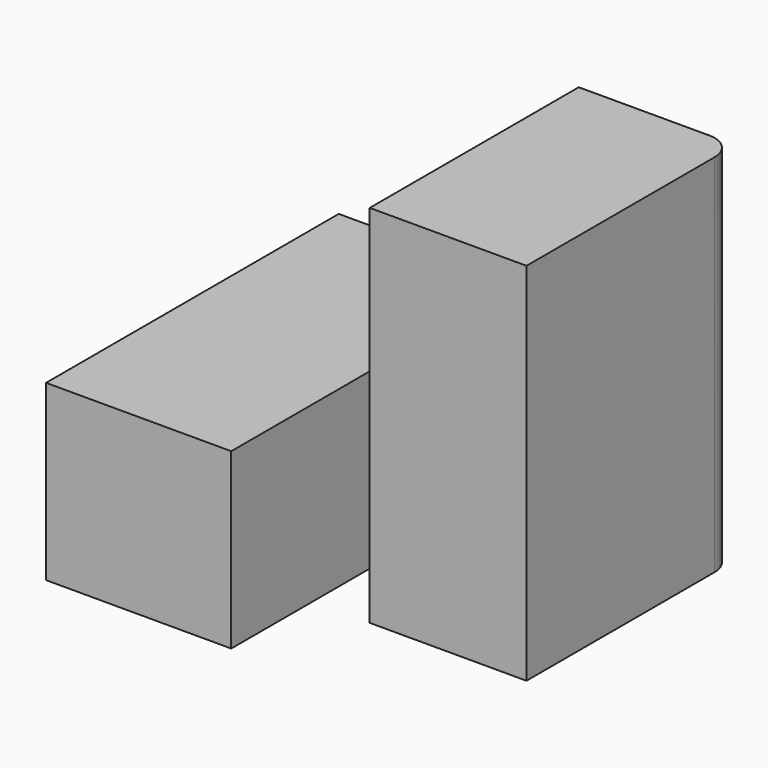
from build123d import *

# Parameters (mm, degrees)
F2_DEPTH = 88.784553
F0_W     = 45
F0_H     = 88.9
F3_DEPTH = 42.222336


with BuildPart() as f2:
    # F1 (on face) → F2 (new body)
    with BuildSketch(Plane.XY):
        with BuildLine():
            Line((57.318994, 42.361486), (25.568994, 42.361486))
            Line((25.568994, 42.361486), (25.568994, -21.138514))
            Line((25.568994, -21.138514), (63.668994, -21.138514))
            Line((63.668994, -21.138514), (63.668994, 36.011486))
            ThreePointArc((63.668994, 36.011486), (61.809122, 40.501614), (57.318994, 42.361486))
        make_face()
    extrude(amount=F2_DEPTH)


with BuildPart() as f3:
    # F0 (on Top) → F3 (new body)
    with BuildSketch(Plane.XY):
        with Locations((-10.854116, -1.349807)):
            Rectangle(F0_W, F0_H)
    extrude(amount=F3_DEPTH)


solid = Compound([f2.part, f3.part])
